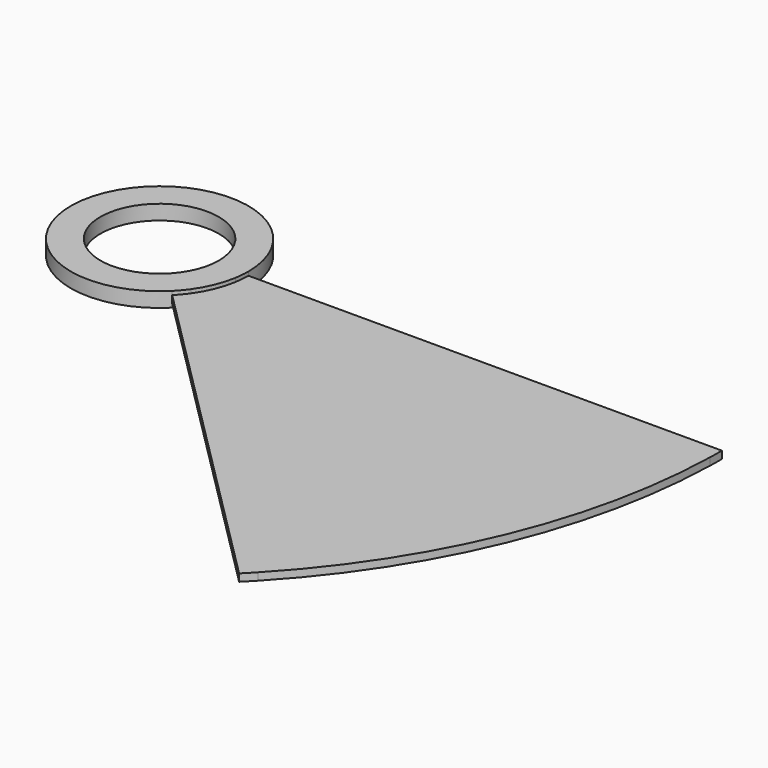
from build123d import *

# Parameters (mm, degrees)
F0_R     = 15.875
F0_R_2   = 12.7
F1_DEPTH = 1.5875
F2_DEPTH = 0.79375


with BuildPart() as f1:
    # F0 (on Top) → F1 (new body, symmetric)
    with BuildSketch(Plane.XY):
        with BuildLine():
            ThreePointArc((18.783553, -3.175), (18.983271, -1.59308), (19.05, 0))
            ThreePointArc((19.05, 0), (-17.599905, 7.290119), (13.470384, -13.470384))
            ThreePointArc((13.470384, -13.470384), (14.548459, -12.298164), (15.524853, -11.039992))
            ThreePointArc((15.524853, -11.039992), (17.599182, -7.291864), (18.783553, -3.175))
        make_face()
        Circle(F0_R, mode=Mode.SUBTRACT)
        Circle(F0_R)
        Circle(F0_R_2, mode=Mode.SUBTRACT)
    extrude(amount=F1_DEPTH, both=True)


with BuildPart() as f2:
    # F0 (on Top) → F2 (new body, symmetric)
    with BuildSketch(Plane.XY):
        with BuildLine():
            ThreePointArc((15.524853, -11.039992), (14.548459, -12.298164), (13.470384, -13.470384))
            Line((13.470384, -13.470384), (51.525121, -51.525119))
            Line((51.525121, -51.525119), (53.87627, -49.391408))
            Line((53.87627, -49.391408), (15.524853, -11.039992))
        make_face()
        with BuildLine():
            Line((120.65, 2e-06), (19.05, 0))
            ThreePointArc((19.05, 0), (18.983271, -1.59308), (18.783553, -3.175))
            Line((18.783553, -3.175), (120.608217, -3.174998))
            ThreePointArc((120.608217, -3.174998), (120.639554, -1.587635), (120.65, 2e-06))
        make_face()
        with BuildLine():
            Line((120.608217, -3.174998), (18.783553, -3.175))
            ThreePointArc((18.783553, -3.175), (17.599182, -7.291864), (15.524853, -11.039992))
            Line((15.524853, -11.039992), (53.87627, -49.391408))
            Line((53.87627, -49.391408), (87.525389, -83.040525))
            ThreePointArc((87.525389, -83.040525), (111.465353, -46.172475), (120.608217, -3.174998))
        make_face()
        with BuildLine():
            Line((53.87627, -49.391408), (51.525121, -51.525119))
            Line((51.525121, -51.525119), (85.312435, -85.312431))
            ThreePointArc((85.312435, -85.312431), (86.426377, -84.18375), (87.525389, -83.040525))
            Line((87.525389, -83.040525), (53.87627, -49.391408))
        make_face()
    extrude(amount=F2_DEPTH, both=True)


solid = Compound([f1.part, f2.part])
